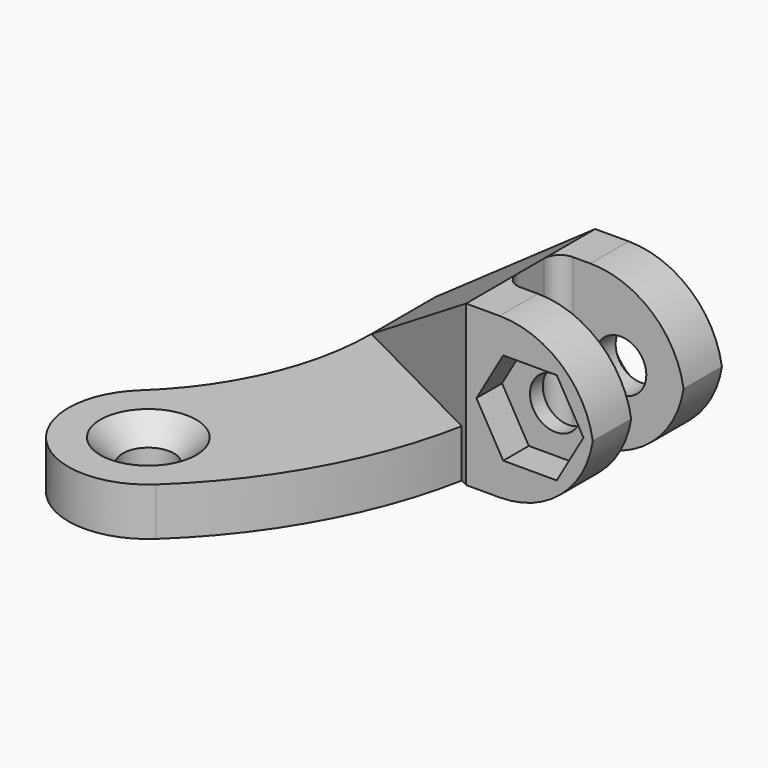
from build123d import *

# Parameters (mm, degrees)
PAD_DEPTH           = 3
HOLE_D              = 3.2
HOLE_CSINK_D        = 6
HOLE_CSINK_ANGLE    = 90
SKETCH002_W         = 5
SKETCH002_H         = 3
SKETCH003_W         = 10.1
SKETCH003_H         = 10
SKETCH004_W         = 8
SKETCH004_H         = 3
PAD001_DEPTH        = 10
FILLET_R            = 1
POCKET_DEPTH        = 25.359393
HOLE001_D           = 3.2
HOLE001_CSINK_D     = 6
HOLE001_CSINK_ANGLE = 90
POCKET001_DEPTH     = 2


with BuildPart() as part:
    # Sketch → Pad (new body)
    with BuildSketch(Plane.XY):
        with BuildLine():
            ThreePointArc((10.912011, -11.701625), (14.672971, -6.379962), (16, 0))
            Line((16, 0), (16, 5))
            Line((26, 5), (16, 5))
            Line((26, 5), (26, 0))
            ThreePointArc((17.731994, -19.015162), (23.843572, -10.367453), (26, 0))
            ThreePointArc((10.912011, -11.701625), (10.665234, -18.768385), (17.731994, -19.015162))
        make_face()
    extrude(amount=PAD_DEPTH)

    # Hole (through all)
    with Locations(Plane.XY.offset(3)):
        with Locations((14.322002, -15.358393)):
            CounterSinkHole(HOLE_D / 2, HOLE_CSINK_D / 2, counter_sink_angle=HOLE_CSINK_ANGLE)

    # Sketch002 (on Face6 of Hole) → AdditiveLoft section 0
    with BuildSketch(Plane(origin=(16, 0, 0), x_dir=(0, -1, 0), z_dir=(-1, 0, 0))):
        with Locations((-2.5, 1.5)):
            Rectangle(SKETCH002_W, SKETCH002_H)
    # Sketch003 (on Face7 of Hole) → AdditiveLoft section 1
    with BuildSketch(Plane.YZ.offset(26)):
        with Locations((-0.05, 5)):
            Rectangle(SKETCH003_W, SKETCH003_H)
    loft()

    # Sketch004 → Pad001 (join)
    with BuildSketch(Plane.XY):
        with Locations((30, 3.5)):
            Rectangle(SKETCH004_W, SKETCH004_H)
        with Locations((30, -3.6)):
            Rectangle(SKETCH004_W, SKETCH004_H)
    extrude(amount=PAD001_DEPTH)

    # Fillet
    fillet_edges = [part.edges().sort_by_distance(p)[0] for p in [
        (26, 2, 5),
        (26, -2.1, 5),
    ]]
    fillet(fillet_edges, radius=FILLET_R)

    # Sketch005 (on Face14 of Fillet) → Pocket (cut, through all)
    with BuildSketch(Plane(origin=(0, 5, 0), x_dir=(-1, 0, 0), z_dir=(0, 1, 0))):
        with BuildLine():
            Line((-34, 10), (-28.1, 10))
            ThreePointArc((-28.1, 10), (-32.27193, 8.27193), (-34, 4.1))
            Line((-34, 10), (-34, 4.1))
        make_face()
        with BuildLine():
            Line((-34, 0), (-34, 5.9))
            ThreePointArc((-34, 5.9), (-32.27193, 1.72807), (-28.1, 0))
            Line((-34, 0), (-28.1, 0))
        make_face()
    extrude(amount=-POCKET_DEPTH, mode=Mode.SUBTRACT)

    # Hole001 (through all)
    with Locations(Plane(origin=(0, 5, 0), x_dir=(-1, 0, 0), z_dir=(0, 1, 0))):
        with Locations((-30, 5)):
            CounterSinkHole(HOLE001_D / 2, HOLE001_CSINK_D / 2, counter_sink_angle=HOLE001_CSINK_ANGLE)

    # Sketch007 (on Face17 of Hole001) → Pocket001 (cut)
    with BuildSketch(Plane.XZ.offset(5.1)):
        Polygon((33.348632, 5), (31.674316, 7.9), (28.325684, 7.9), (26.651368, 5), (28.325684, 2.1), (31.674316, 2.1), align=None)
    extrude(amount=-POCKET001_DEPTH, mode=Mode.SUBTRACT)


solid = part.part
